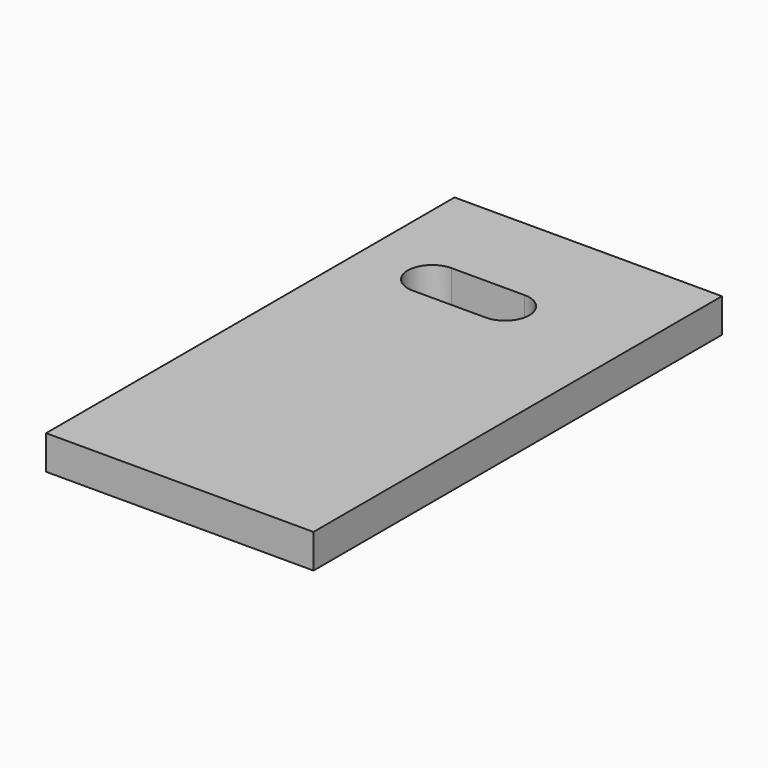
from build123d import *

# Parameters (mm, degrees)
EXTRUDE008_DEPTH = 7
BOX130_W         = 7
BOX130_H         = 105
BOX130_DEPTH     = 55


with BuildPart() as wirecut005:
    # Sketch019 (on Face1 of Box130) → Extrude008 (new body)
    with BuildSketch(Plane(origin=(340, 25, 107), x_dir=(0, -1, 0), z_dir=(0, 0, 1))):
        with BuildLine():
            ThreePointArc((-75.5, 30), (-80.5, 35), (-85.5, 30))
            Line((-85.5, 30), (-85.5, 15))
            ThreePointArc((-85.5, 15), (-80.5, 10), (-75.5, 15))
            Line((-75.5, 30), (-75.5, 15))
        make_face()
    extrude(amount=-EXTRUDE008_DEPTH)


with BuildPart() as cut023:
    # Box130 → Box130 (new body)
    with BuildSketch(Plane(origin=(340, 25, 107), x_dir=(0, 0, -1), z_dir=(1, 0, 0))):
        with Locations((3.5, 52.5)):
            Rectangle(BOX130_W, BOX130_H)
    extrude(amount=BOX130_DEPTH)

    # Cut023: cut Wirecut005
    add(wirecut005.part, mode=Mode.SUBTRACT)


solid = cut023.part
